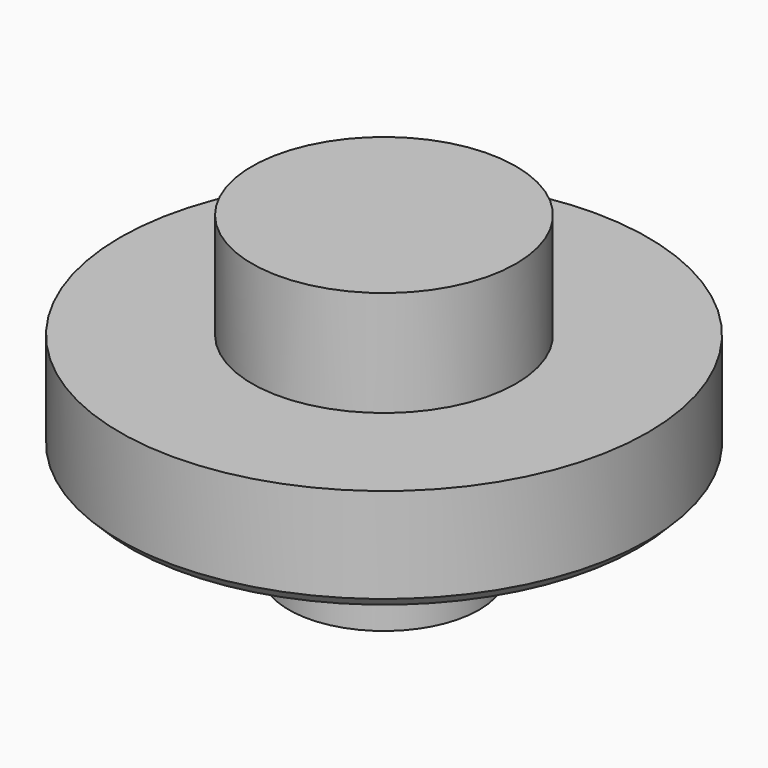
from build123d import *

# Parameters (mm, degrees)
SKETCH_R     = 50
PAD_DEPTH    = 20
CHAMFER_SIZE = 2
SKETCH001_R  = 18
PAD001_DEPTH = 20
SKETCH002_R  = 25
PAD002_DEPTH = 20


with BuildPart() as part:
    # Sketch → Pad (new body)
    with BuildSketch(Plane.XY):
        Circle(SKETCH_R)
    extrude(amount=PAD_DEPTH)

    # Chamfer
    chamfer_edges = [part.edges().sort_by_distance(p)[0] for p in [
        (-50, 0, 0),
    ]]
    chamfer(chamfer_edges, length=CHAMFER_SIZE)

    # Sketch001 (on Face4 of Chamfer) → Pad001 (join)
    with BuildSketch(Plane(origin=(0, 0, 0), x_dir=(1, 0, 0), z_dir=(0, 0, -1))):
        Circle(SKETCH001_R)
    extrude(amount=PAD001_DEPTH)

    # Sketch002 (on Face3 of Pad001) → Pad002 (join)
    with BuildSketch(Plane.XY.offset(20)):
        Circle(SKETCH002_R)
    extrude(amount=PAD002_DEPTH)


solid = part.part
